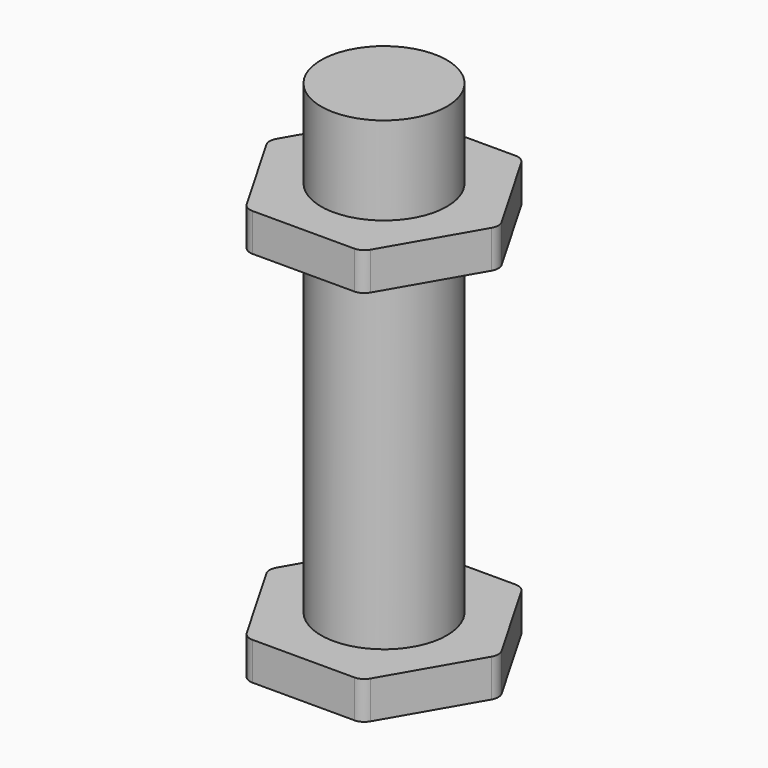
from build123d import *

# Parameters (mm, degrees)
CIRCLE001_R      = 2.5
EXTRUDE002_DEPTH = 1.5
EXTRUDE003_DEPTH = 1.5
EXTRUDE001_DEPTH = 1.5
CIRCLE_R         = 2.5
EXTRUDE_DEPTH    = 20


with BuildPart() as extrude002:
    # Circle001 → Extrude002 (new body)
    with BuildSketch(Plane(origin=(10, 0, 0), x_dir=(1, 0, 0), z_dir=(0, 0, -1))):
        Circle(CIRCLE001_R)
    extrude(amount=-EXTRUDE002_DEPTH)


with BuildPart() as ecrou:
    # Polygon001 → Extrude003 (new body)
    with BuildSketch(Plane(origin=(10, 0, 0), x_dir=(1, 0, 0), z_dir=(0, 0, 1))):
        with BuildLine():
            Line((2.453739, 3.75), (4.474465, 0.25))
            ThreePointArc((4.474465, 0.25), (4.541452, 0), (4.474465, -0.25))
            Line((4.474465, -0.25), (2.453739, -3.75))
            ThreePointArc((2.453739, -3.75), (2.270726, -3.933013), (2.020726, -4))
            Line((2.020726, -4), (-2.020726, -4))
            ThreePointArc((-2.020726, -4), (-2.270726, -3.933013), (-2.453739, -3.75))
            Line((-2.453739, -3.75), (-4.474465, -0.25))
            ThreePointArc((-4.474465, -0.25), (-4.541452, 0), (-4.474465, 0.25))
            Line((-4.474465, 0.25), (-2.453739, 3.75))
            ThreePointArc((-2.453739, 3.75), (-2.270726, 3.933013), (-2.020726, 4))
            Line((-2.020726, 4), (2.020726, 4))
            ThreePointArc((2.020726, 4), (2.270726, 3.933013), (2.453739, 3.75))
        make_face()
    extrude(amount=EXTRUDE003_DEPTH)

    # Cut: cut Extrude002
    add(extrude002.part, mode=Mode.SUBTRACT)


with BuildPart() as ecrou_1:
    # Cut placement: moved
    add(ecrou.part.moved(Location((-10, 0, 15))))


with BuildPart() as extrude001:
    # Polygon → Extrude001 (new body)
    with BuildSketch(Plane.XY):
        with BuildLine():
            Line((2.453739, 3.75), (4.474465, 0.25))
            ThreePointArc((4.474465, 0.25), (4.541452, 0), (4.474465, -0.25))
            Line((4.474465, -0.25), (2.453739, -3.75))
            ThreePointArc((2.453739, -3.75), (2.270726, -3.933013), (2.020726, -4))
            Line((2.020726, -4), (-2.020726, -4))
            ThreePointArc((-2.020726, -4), (-2.270726, -3.933013), (-2.453739, -3.75))
            Line((-2.453739, -3.75), (-4.474465, -0.25))
            ThreePointArc((-4.474465, -0.25), (-4.541452, 0), (-4.474465, 0.25))
            Line((-4.474465, 0.25), (-2.453739, 3.75))
            ThreePointArc((-2.453739, 3.75), (-2.270726, 3.933013), (-2.020726, 4))
            Line((-2.020726, 4), (2.020726, 4))
            ThreePointArc((2.020726, 4), (2.270726, 3.933013), (2.453739, 3.75))
        make_face()
    extrude(amount=EXTRUDE001_DEPTH)


with BuildPart() as vis:
    # Circle → Extrude (new body)
    with BuildSketch(Plane(origin=(0, 0, 0), x_dir=(1, 0, 0), z_dir=(0, 0, -1))):
        Circle(CIRCLE_R)
    extrude(amount=-EXTRUDE_DEPTH)

    # Fusion: union Extrude001
    add(extrude001.part)


solid = Compound([ecrou_1.part, vis.part])
